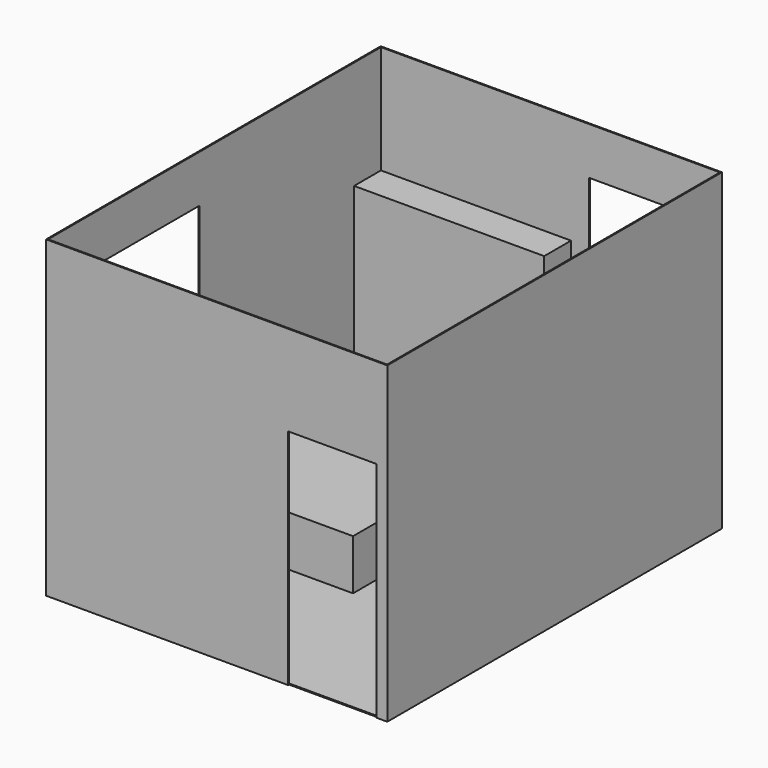
from build123d import *

# Parameters (mm, degrees)
F0_W      = 3100
F0_H      = 3800
F1_DEPTH  = 2850
F2_T      = -10
F3_W      = 800
F3_H      = 2030
F4_DEPTH  = 10
F5_W      = 1100
F5_H      = 1790
F6_DEPTH  = 10
F7_W      = 1100
F7_H      = 1790
F8_DEPTH  = 10
F9_W      = 1244.6
F9_H      = 584.2
F10_DEPTH = 2362.2
F11_W     = 1727.2
F11_H     = 1854.2
F12_DEPTH = 304.8
F13_W     = 2489.2
F13_H     = 28.575
F14_DEPTH = 650.875
F15_W     = 1679.575
F15_H     = 2111.375
F16_DEPTH = 457.2


with BuildPart() as f1:
    # F0 (on Top) → F1 (new body)
    with BuildSketch(Plane.XY):
        Rectangle(F0_W, F0_H)
    extrude(amount=F1_DEPTH)

    # F2
    f2_openings = [f1.faces().sort_by_distance(p)[0] for p in [
        (0, 0, 2850),
    ]]
    offset(amount=F2_T, openings=f2_openings)

    # F3 (on face) → F4 (cut)
    with BuildSketch(Plane.XZ.offset(1900)):
        with Locations((1050, 1015)):
            Rectangle(F3_W, F3_H)
    extrude(amount=-F4_DEPTH, mode=Mode.SUBTRACT)

    # F5 (on face) → F6 (cut)
    with BuildSketch(Plane(origin=(-1550, 0, 0), x_dir=(0, -1, 0), z_dir=(-1, 0, 0))):
        with Locations((720, 1525)):
            Rectangle(F5_W, F5_H)
    extrude(amount=-F6_DEPTH, mode=Mode.SUBTRACT)

    # F7 (on face) → F8 (cut)
    with BuildSketch(Plane(origin=(0, 1900, 0), x_dir=(-1, 0, 0), z_dir=(0, 1, 0))):
        with Locations((-900, 1525)):
            Rectangle(F7_W, F7_H)
    extrude(amount=-F8_DEPTH, mode=Mode.SUBTRACT)

    # F9 (on face) → F10 (join)
    with BuildSketch(Plane.XY.offset(10)):
        with Locations((-917.7, -1597.9)):
            Rectangle(F9_W, F9_H)
    extrude(amount=F10_DEPTH)

    # F11 (on face) → F12 (join)
    with BuildSketch(Plane.XZ.offset(-1890)):
        with Locations((-676.4, 937.1)):
            Rectangle(F11_W, F11_H)
    extrude(amount=F12_DEPTH)

    # F13 (on face) → F14 (join)
    with BuildSketch(Plane(origin=(1540, 0, 0), x_dir=(0, -1, 0), z_dir=(-1, 0, 0))):
        with Locations((-645.4, 960.9125)):
            Rectangle(F13_W, F13_H)
    extrude(amount=F14_DEPTH)

    # F15 (on face) → F16 (join)
    with BuildSketch(Plane.XY.offset(10)):
        with Locations((-700.2125, 529.5125)):
            Rectangle(F15_W, F15_H)
    extrude(amount=F16_DEPTH)


solid = f1.part
